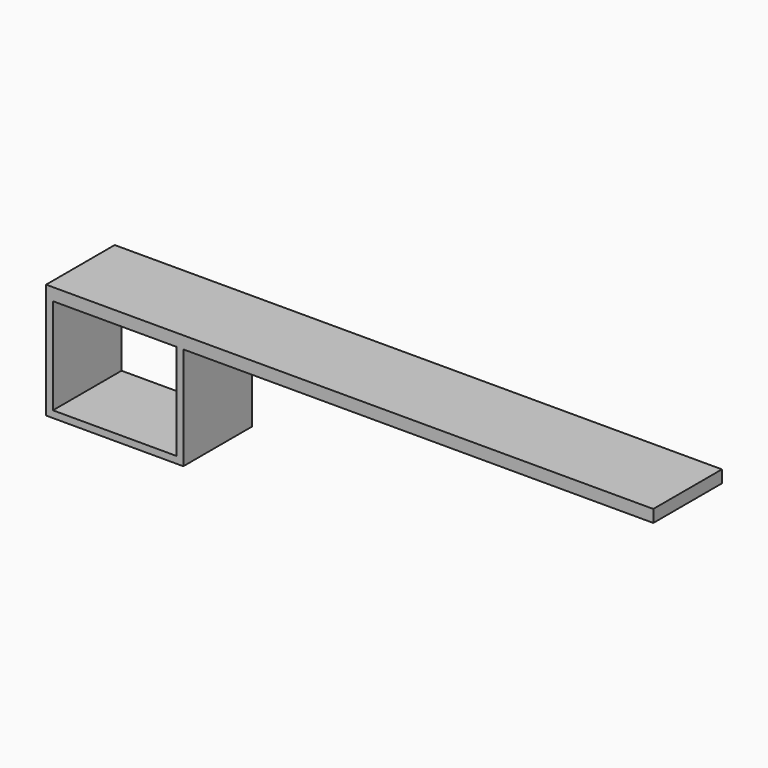
from build123d import *

# Parameters (mm, degrees)
F0_W     = 1370
F0_H     = 36
F0_W_2   = 20
F0_W_3   = 360
F1_DEPTH = 250
F0_H_2   = 150
F0_H_3   = 130
F0_H_4   = 20
F2_DEPTH = 250


with BuildPart() as f1:
    # F0 (on Front) → F1 (new body)
    with BuildSketch(Plane.XZ):
        with Locations((801.0240406529, 107.1129842203)):
            Rectangle(F0_W, F0_H)
        with Locations((-273.9759593471, 107.1129842203)):
            Rectangle(F0_W_2, F0_H)
        with Locations((-83.9759593471, 107.1129842203)):
            Rectangle(F0_W_3, F0_H)
        with Locations((106.0240406529, 107.1129842203)):
            Rectangle(F0_W_2, F0_H)
    extrude(amount=F1_DEPTH)

    # F0 (on Front) → F2 (join)
    with BuildSketch(Plane.XZ):
        with Locations((-273.9759593471, 14.1129842203)):
            Rectangle(F0_W_2, F0_H_2)
        with Locations((-273.9759593471, -125.8870157797)):
            Rectangle(F0_W_2, F0_H_3)
        with Locations((-273.9759593471, -200.8870157797)):
            Rectangle(F0_W_2, F0_H_4)
        with Locations((-83.9759593471, -200.8870157797)):
            Rectangle(F0_W_3, F0_H_4)
        with Locations((106.0240406529, -200.8870157797)):
            Rectangle(F0_W_2, F0_H_4)
        with Locations((106.0240406529, -125.8870157797)):
            Rectangle(F0_W_2, F0_H_3)
        with Locations((106.0240406529, 14.1129842203)):
            Rectangle(F0_W_2, F0_H_2)
    extrude(amount=F2_DEPTH)


solid = f1.part
